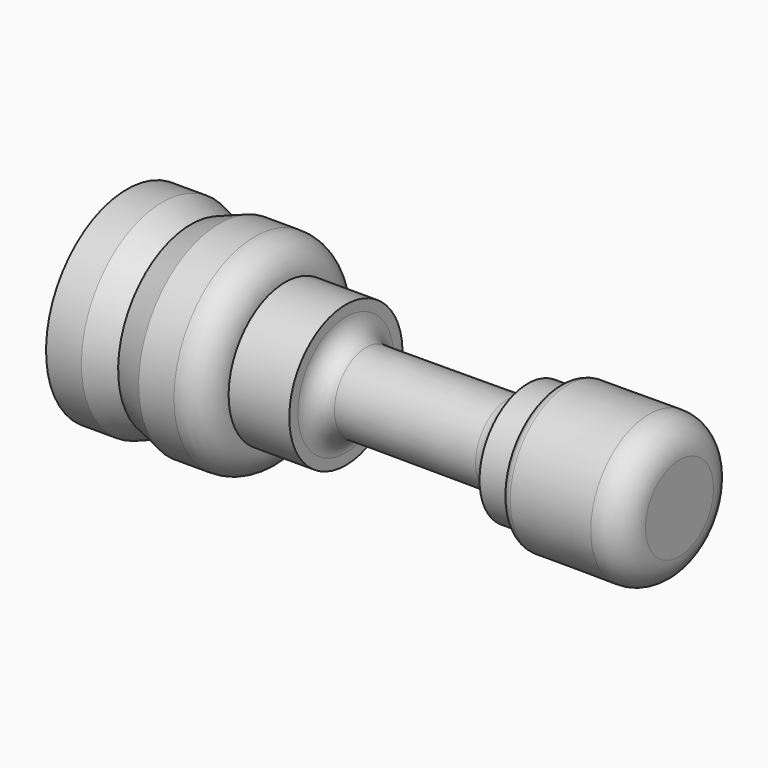
from build123d import *


with BuildPart() as f1:
    # F0 (on Front) → F1 (revolve)
    with BuildSketch(Plane.XZ):
        with BuildLine():
            Line((-6.056104, 10), (-60.715947, 10))
            Line((-60.715947, 10), (-60.715947, 0))
            Line((-60.715947, 0), (-57.215104, 0))
            Line((-57.215104, 0), (-54.38449, 1))
            Line((-54.38449, 1), (-51.556062, 0))
            Line((-51.556062, 0), (-48.056062, 0))
            ThreePointArc((-48.056062, 0), (-45.934742, 0.87868), (-45.056062, 3))
            Line((-45.056062, 3), (-39.056062, 3))
            Line((-39.056062, 3), (-39.056062, 4.076795))
            ThreePointArc((-39.056062, 4.076795), (-38.467661, 5.493619), (-37.048672, 6.076782))
            Line((-37.048672, 6.076782), (-23.048672, 6.025052))
            ThreePointArc((-23.048672, 6.025052), (-21.639238, 5.436664), (-21.056062, 4.025065))
            Line((-21.056062, 4.025065), (-18.056062, 4.025065))
            Line((-18.056062, 4.025065), (-18.056062, 3.82409))
            ThreePointArc((-18.056062, 3.82409), (-17.764474, 3.118291), (-17.059757, 2.824097))
            Line((-17.059757, 2.824097), (-9.067212, 2.794565))
            ThreePointArc((-9.067212, 2.794565), (-6.938736, 3.669302), (-6.056127, 5.794527))
            Line((-6.056127, 5.794527), (-6.056104, 10))
        make_face()
    revolve(axis=Axis((-62.274424, 0, 10), (-1, 0, 0)))


solid = f1.part
